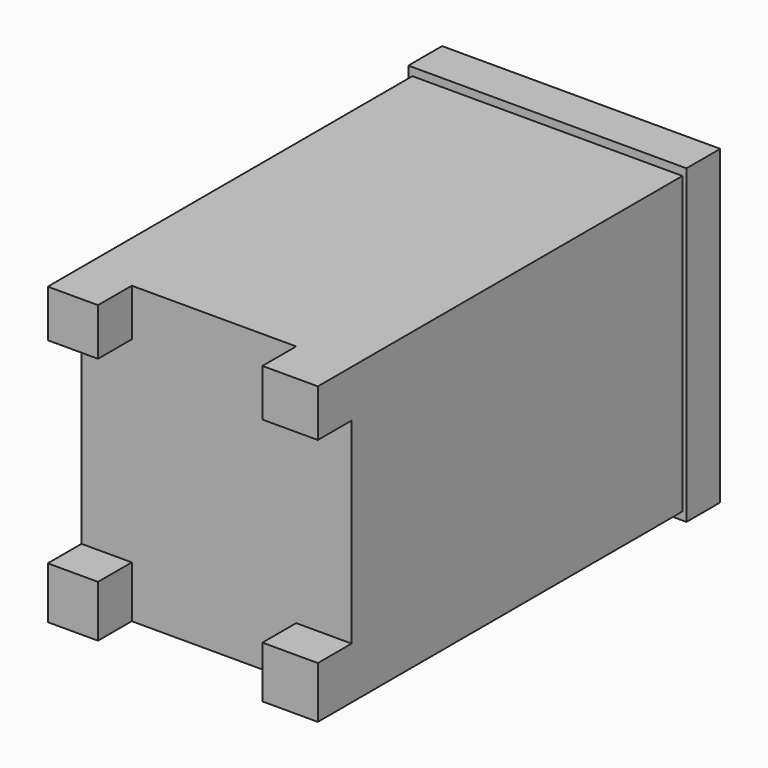
from build123d import *

# Parameters (mm, degrees)
SKETCH_W      = 320
SKETCH_H      = 350
PAD_DEPTH     = 590
POCKET_DEPTH  = 50
SKETCH002_W   = 312.833359
SKETCH002_H   = 173.796318
SKETCH002_W_2 = 309.6734
SKETCH002_H_2 = 165.896453
PAD001_DEPTH  = 10
SKETCH003_W   = 329.541511
SKETCH003_H   = 368.861823
PAD002_DEPTH  = 50


with BuildPart() as part:
    # Sketch → Pad (new body)
    with BuildSketch(Plane.XZ):
        with Locations((160, 175)):
            Rectangle(SKETCH_W, SKETCH_H)
    extrude(amount=PAD_DEPTH)

    # Sketch001 (on Face6 of Pad) → Pocket (cut)
    with BuildSketch(Plane.XZ.offset(590)):
        Polygon((-35.069702, 294.049438), (-35.069702, 61.386997), (59.508472, 61.386997), (59.508472, -35.082802), (254.339645, -35.082802), (254.339645, 61.386997), (365.941986, 61.386997), (365.941986, 294.049438), (254.339645, 294.049438), (254.339645, 365.928894), (59.508472, 365.928894), (59.508472, 294.049438), align=None)
    extrude(amount=-POCKET_DEPTH, mode=Mode.SUBTRACT)

    # Sketch002 (on Face9 of Pocket) → Pad001 (join)
    with BuildSketch(Plane(origin=(0, 0, 0), x_dir=(0, 0, -1), z_dir=(-1, 0, 0))):
        with Locations((-177.158851, 160.656223)):
            Rectangle(SKETCH002_W, SKETCH002_H)
        with Locations((-177.158844, 363.681931)):
            Rectangle(SKETCH002_W_2, SKETCH002_H_2)
    extrude(amount=PAD001_DEPTH)

    # Sketch003 (on Face2 of Pad001) → Pad002 (join)
    with BuildSketch(Plane(origin=(0, 0, 0), x_dir=(1, 0, 0), z_dir=(0, 1, 0))):
        with Locations((159.986142, -175.059994)):
            Rectangle(SKETCH003_W, SKETCH003_H)
    extrude(amount=-PAD002_DEPTH)


solid = part.part
